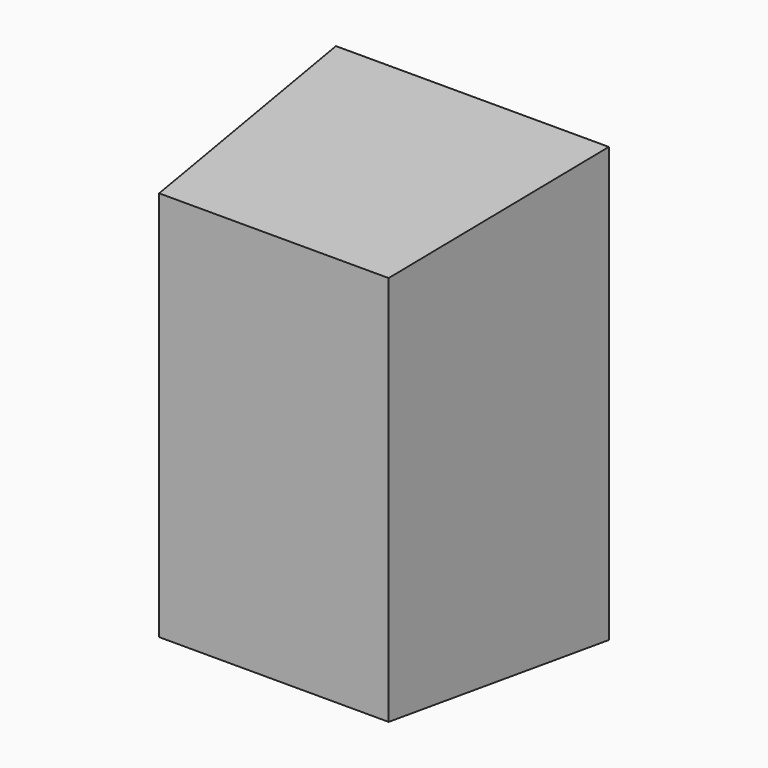
from build123d import *

# Parameters (mm, degrees)
F0_W     = 22
F0_H     = 35
F1_DEPTH = 20
F1_TAPER = 5


with BuildPart() as f1:
    # F0 (on Front) → F1 (new body)
    with BuildSketch(Plane.XZ):
        Rectangle(F0_W, F0_H)
    extrude(amount=F1_DEPTH, taper=F1_TAPER)


solid = f1.part
